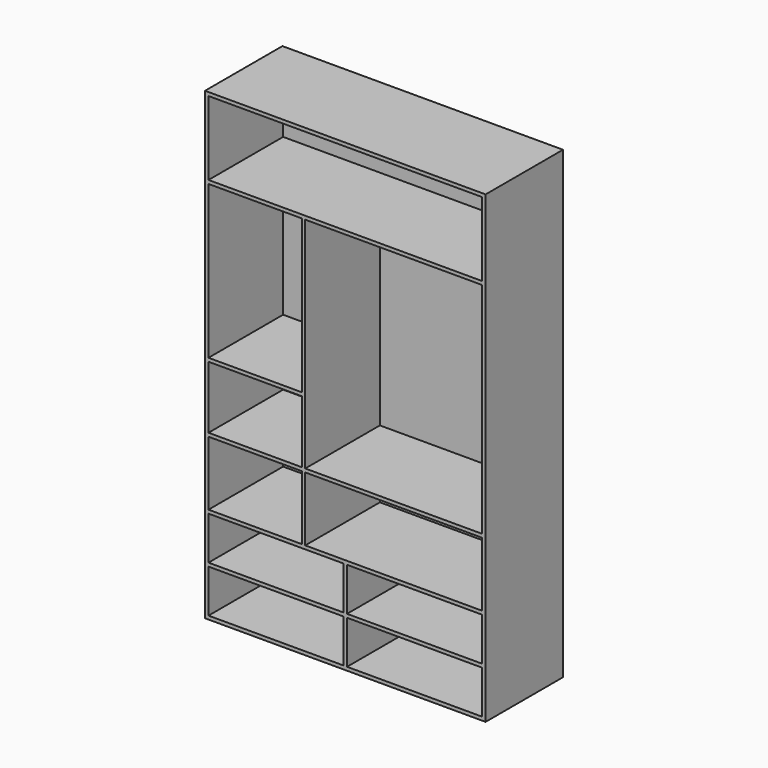
from build123d import *

# Parameters (mm, degrees)
F0_W     = 1450
F0_H     = 2400
F1_DEPTH = 500
F2_T     = -18
F4_DEPTH = 482
F5_W     = 1414.227886
F5_H     = 18
F5_W_2   = 482
F6_DEPTH = 482


with BuildPart() as f1:
    # F0 (on Front) → F1 (new body)
    with BuildSketch(Plane.XZ):
        Rectangle(F0_W, F0_H)
    extrude(amount=F1_DEPTH)

    # F2
    f2_openings = [f1.faces().sort_by_distance(p)[0] for p in [
        (0, -500, 0),
    ]]
    offset(amount=F2_T, openings=f2_openings)

    # F3 (on face) → F4 (join)
    with BuildSketch(Plane.XZ.offset(18)):
        Polygon((707, 800), (-707, 800), (-707, 782), (-225, 782), (-225, -700), (-707, -700), (-707, -718), (-9, -718), (-9, -941), (-707, -941), (-707, -959), (-9, -959), (-9, -1182), (9, -1182), (9, -959), (707, -959), (707, -941), (9, -941), (9, -718), (707, -718), (707, -700), (-207, -700), (-207, 782), (707, 782), align=None)
    extrude(amount=F4_DEPTH)

    # F5 (on face) → F6 (join)
    with BuildSketch(Plane.XZ.offset(18)):
        with Locations((0.113943, -359)):
            Rectangle(F5_W, F5_H)
        with Locations((-466, -18)):
            Rectangle(F5_W_2, F5_H)
    extrude(amount=F6_DEPTH)


solid = f1.part
